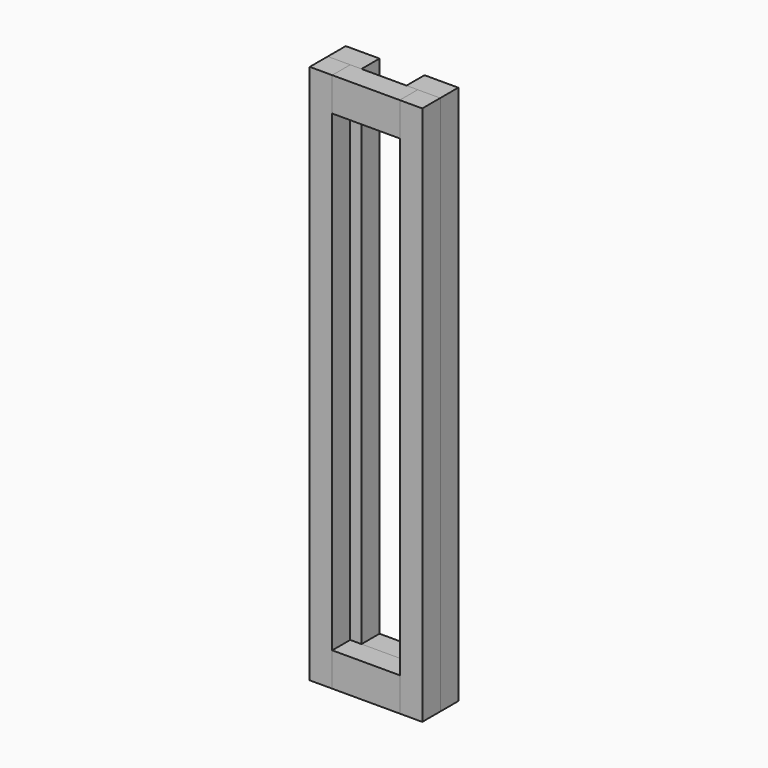
from build123d import *

# Parameters (mm, degrees)
F0_W     = 38.1
F0_H     = 609.6
F1_DEPTH = 25.4
F3_DEPTH = 25.4
F2_W     = 76.2
F2_H     = 38.1
F4_DEPTH = 25.4
F5_W     = 50.8
F5_H     = 38.1
F6_DEPTH = 25.4


with BuildPart() as f1:
    # F0 (on Front) → F1 (new body)
    with BuildSketch(Plane.XZ):
        with Locations((44.45, -47.983626)):
            Rectangle(F0_W, F0_H)
        with Locations((-44.45, -47.983626)):
            Rectangle(F0_W, F0_H)
    extrude(amount=-F1_DEPTH)


with BuildPart() as f3:
    # F2 (on Front) → F3 (new body)
    with BuildSketch(Plane.XZ):
        Polygon((-38.1, 256.816374), (-63.5, 256.816374), (-63.5, -352.783626), (-38.1, -352.783626), (-38.1, -314.683626), (-38.1, 218.716374), align=None)
        Polygon((63.5, 256.816374), (38.1, 256.816374), (38.1, 218.716374), (38.1, -314.683626), (38.1, -352.783626), (63.5, -352.783626), align=None)
    extrude(amount=F3_DEPTH)


with BuildPart() as f4:
    # F2 (on Front) → F4 (new body)
    with BuildSketch(Plane.XZ):
        with Locations((0, 237.766374)):
            Rectangle(F2_W, F2_H)
        with Locations((0, -333.733626)):
            Rectangle(F2_W, F2_H)
    extrude(amount=F4_DEPTH)


with BuildPart() as f6:
    # F5 (on face) → F6 (new body)
    with BuildSketch(Plane(origin=(0, 0, 0), x_dir=(-1, 0, 0), z_dir=(0, 1, 0))):
        with Locations((0, -333.733626)):
            Rectangle(F5_W, F5_H)
    extrude(amount=F6_DEPTH)


solid = Compound([f1.part, f3.part, f4.part, f6.part])
